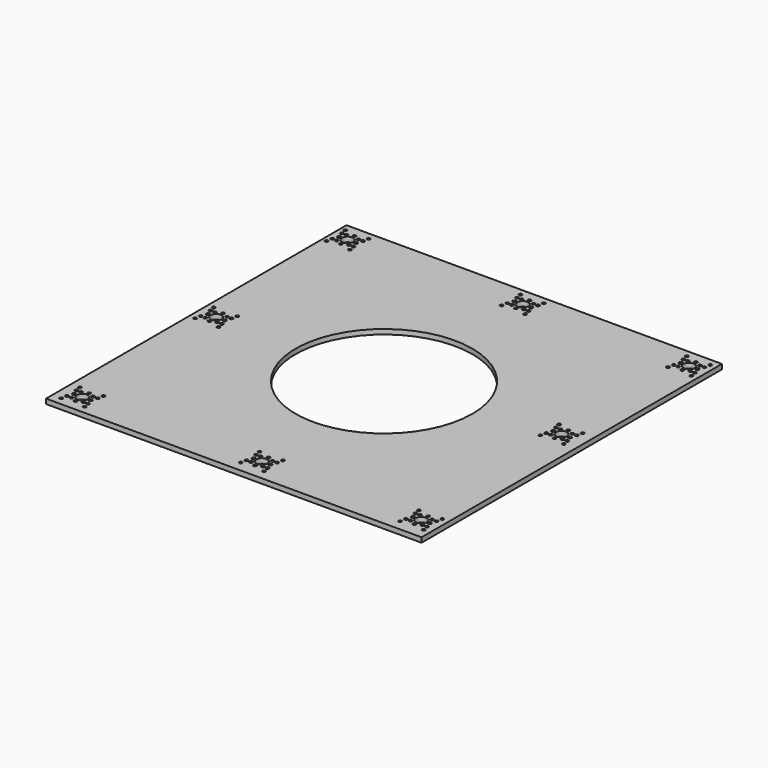
from build123d import *

# Parameters (mm, degrees)
F0_W     = 431.8
F0_H     = 431.8
F0_R     = 1.778
F0_R_2   = 2.032
F0_R_3   = 6.3627
F0_R_4   = 101.6
F1_DEPTH = 5.588


with BuildPart() as f1:
    # F0 (on Top) → F1 (new body)
    with BuildSketch(Plane.XY):
        Rectangle(F0_W, F0_H)
        with Locations((-205.769208, -206.807749)):
            Circle(F0_R, mode=Mode.SUBTRACT)
        with Locations((-192.298823, -203.116365)):
            Circle(F0_R, mode=Mode.SUBTRACT)
        with Locations((-204.434026, -200.252162)):
            Circle(F0_R, mode=Mode.SUBTRACT)
        with Locations((-199.213621, -200.252162)):
            Circle(F0_R, mode=Mode.SUBTRACT)
        with Locations((-201.823823, -193.337365)):
            Circle(F0_R_2, mode=Mode.SUBTRACT)
        with Locations((-192.298823, -193.337365)):
            Circle(F0_R_3, mode=Mode.SUBTRACT)
        with Locations((-178.828439, -206.807749)):
            Circle(F0_R, mode=Mode.SUBTRACT)
        with Locations((-185.384026, -200.252162)):
            Circle(F0_R, mode=Mode.SUBTRACT)
        with Locations((-180.163621, -200.252162)):
            Circle(F0_R, mode=Mode.SUBTRACT)
        with Locations((-182.773823, -193.337365)):
            Circle(F0_R_2, mode=Mode.SUBTRACT)
        with Locations((-204.434026, -186.422568)):
            Circle(F0_R, mode=Mode.SUBTRACT)
        with Locations((-205.769208, -179.866981)):
            Circle(F0_R, mode=Mode.SUBTRACT)
        with Locations((-199.213621, -186.422568)):
            Circle(F0_R, mode=Mode.SUBTRACT)
        with Locations((-192.298823, -183.558365)):
            Circle(F0_R, mode=Mode.SUBTRACT)
        with Locations((-185.384026, -186.422568)):
            Circle(F0_R, mode=Mode.SUBTRACT)
        with Locations((-180.163621, -186.422568)):
            Circle(F0_R, mode=Mode.SUBTRACT)
        with Locations((-178.828439, -179.866981)):
            Circle(F0_R, mode=Mode.SUBTRACT)
        with Locations((-1.6902, -203.857513)):
            Circle(F0_R, mode=Mode.SUBTRACT)
        with Locations((-0.355018, -197.301926)):
            Circle(F0_R, mode=Mode.SUBTRACT)
        with Locations((-0.355018, -183.472332)):
            Circle(F0_R, mode=Mode.SUBTRACT)
        with Locations((-1.6902, -176.916745)):
            Circle(F0_R, mode=Mode.SUBTRACT)
        with Locations((-208.910998, -10.461002)):
            Circle(F0_R, mode=Mode.SUBTRACT)
        with Locations((-207.575817, -3.905415)):
            Circle(F0_R, mode=Mode.SUBTRACT)
        with Locations((-195.440614, -6.769618)):
            Circle(F0_R, mode=Mode.SUBTRACT)
        with Locations((-202.355411, -3.905415)):
            Circle(F0_R, mode=Mode.SUBTRACT)
        with Locations((-181.97023, -10.461002)):
            Circle(F0_R, mode=Mode.SUBTRACT)
        with Locations((-188.525817, -3.905415)):
            Circle(F0_R, mode=Mode.SUBTRACT)
        with Locations((-183.305411, -3.905415)):
            Circle(F0_R, mode=Mode.SUBTRACT)
        with Locations((25.250569, -203.857513)):
            Circle(F0_R, mode=Mode.SUBTRACT)
        with Locations((4.865387, -197.301926)):
            Circle(F0_R, mode=Mode.SUBTRACT)
        with Locations((11.780184, -200.166129)):
            Circle(F0_R, mode=Mode.SUBTRACT)
        with Locations((2.255184, -190.387129)):
            Circle(F0_R_2, mode=Mode.SUBTRACT)
        with Locations((11.780184, -190.387129)):
            Circle(F0_R_3, mode=Mode.SUBTRACT)
        with Locations((18.694982, -197.301926)):
            Circle(F0_R, mode=Mode.SUBTRACT)
        with Locations((23.915387, -197.301926)):
            Circle(F0_R, mode=Mode.SUBTRACT)
        with Locations((21.305184, -190.387129)):
            Circle(F0_R_2, mode=Mode.SUBTRACT)
        with Locations((4.865387, -183.472332)):
            Circle(F0_R, mode=Mode.SUBTRACT)
        with Locations((11.780184, -180.608129)):
            Circle(F0_R, mode=Mode.SUBTRACT)
        with Locations((18.694982, -183.472332)):
            Circle(F0_R, mode=Mode.SUBTRACT)
        with Locations((23.915387, -183.472332)):
            Circle(F0_R, mode=Mode.SUBTRACT)
        with Locations((25.250569, -176.916745)):
            Circle(F0_R, mode=Mode.SUBTRACT)
        with Locations((181.334589, -203.451574)):
            Circle(F0_R, mode=Mode.SUBTRACT)
        with Locations((182.66977, -196.895987)):
            Circle(F0_R, mode=Mode.SUBTRACT)
        with Locations((187.890175, -196.895987)):
            Circle(F0_R, mode=Mode.SUBTRACT)
        with Locations((185.279973, -189.981189)):
            Circle(F0_R_2, mode=Mode.SUBTRACT)
        with Locations((208.275357, -203.451574)):
            Circle(F0_R, mode=Mode.SUBTRACT)
        with Locations((194.804973, -199.760189)):
            Circle(F0_R, mode=Mode.SUBTRACT)
        with Locations((201.71977, -196.895987)):
            Circle(F0_R, mode=Mode.SUBTRACT)
        with Locations((194.804973, -189.981189)):
            Circle(F0_R_3, mode=Mode.SUBTRACT)
        with Locations((206.940175, -196.895987)):
            Circle(F0_R, mode=Mode.SUBTRACT)
        with Locations((204.329973, -189.981189)):
            Circle(F0_R_2, mode=Mode.SUBTRACT)
        with Locations((182.66977, -183.066392)):
            Circle(F0_R, mode=Mode.SUBTRACT)
        with Locations((187.890175, -183.066392)):
            Circle(F0_R, mode=Mode.SUBTRACT)
        with Locations((181.334589, -176.510805)):
            Circle(F0_R, mode=Mode.SUBTRACT)
        with Locations((201.71977, -183.066392)):
            Circle(F0_R, mode=Mode.SUBTRACT)
        with Locations((194.804973, -180.202189)):
            Circle(F0_R, mode=Mode.SUBTRACT)
        with Locations((206.940175, -183.066392)):
            Circle(F0_R, mode=Mode.SUBTRACT)
        with Locations((208.275357, -176.510805)):
            Circle(F0_R, mode=Mode.SUBTRACT)
        with Locations((-204.965614, 3.009382)):
            Circle(F0_R_2, mode=Mode.SUBTRACT)
        with Locations((-207.575817, 9.92418)):
            Circle(F0_R, mode=Mode.SUBTRACT)
        with Locations((-195.440614, 3.009382)):
            Circle(F0_R_3, mode=Mode.SUBTRACT)
        with Locations((-202.355411, 9.92418)):
            Circle(F0_R, mode=Mode.SUBTRACT)
        with Locations((-195.440614, 12.788382)):
            Circle(F0_R, mode=Mode.SUBTRACT)
        with Locations((-208.910998, 16.479767)):
            Circle(F0_R, mode=Mode.SUBTRACT)
        with Locations((-185.915614, 3.009382)):
            Circle(F0_R_2, mode=Mode.SUBTRACT)
        with Locations((-188.525817, 9.92418)):
            Circle(F0_R, mode=Mode.SUBTRACT)
        with Locations((-183.305411, 9.92418)):
            Circle(F0_R, mode=Mode.SUBTRACT)
        with Locations((-181.97023, 16.479767)):
            Circle(F0_R, mode=Mode.SUBTRACT)
        with Locations((-210.641413, 180.718801)):
            Circle(F0_R, mode=Mode.SUBTRACT)
        with Locations((-209.306231, 187.274388)):
            Circle(F0_R, mode=Mode.SUBTRACT)
        with Locations((-204.085826, 187.274388)):
            Circle(F0_R, mode=Mode.SUBTRACT)
        with Locations((-197.171028, 184.410186)):
            Circle(F0_R, mode=Mode.SUBTRACT)
        with Locations((-190.256231, 187.274388)):
            Circle(F0_R, mode=Mode.SUBTRACT)
        with Locations((-183.700644, 180.718801)):
            Circle(F0_R, mode=Mode.SUBTRACT)
        with Locations((-185.035826, 187.274388)):
            Circle(F0_R, mode=Mode.SUBTRACT)
        with Locations((-206.696028, 194.189186)):
            Circle(F0_R_2, mode=Mode.SUBTRACT)
        with Locations((-209.306231, 201.103983)):
            Circle(F0_R, mode=Mode.SUBTRACT)
        with Locations((-204.085826, 201.103983)):
            Circle(F0_R, mode=Mode.SUBTRACT)
        with Locations((-197.171028, 194.189186)):
            Circle(F0_R_3, mode=Mode.SUBTRACT)
        with Locations((-190.256231, 201.103983)):
            Circle(F0_R, mode=Mode.SUBTRACT)
        with Locations((-210.641413, 207.65957)):
            Circle(F0_R, mode=Mode.SUBTRACT)
        with Locations((-197.171028, 203.968186)):
            Circle(F0_R, mode=Mode.SUBTRACT)
        with Locations((-187.646028, 194.189186)):
            Circle(F0_R_2, mode=Mode.SUBTRACT)
        with Locations((-185.035826, 201.103983)):
            Circle(F0_R, mode=Mode.SUBTRACT)
        with Locations((-183.700644, 207.65957)):
            Circle(F0_R, mode=Mode.SUBTRACT)
        with Locations((-9.580968, 181.124745)):
            Circle(F0_R, mode=Mode.SUBTRACT)
        with Locations((-8.245787, 187.680332)):
            Circle(F0_R, mode=Mode.SUBTRACT)
        with Locations((-3.025381, 187.680332)):
            Circle(F0_R, mode=Mode.SUBTRACT)
        with Locations((-5.635584, 194.595129)):
            Circle(F0_R_2, mode=Mode.SUBTRACT)
        with Locations((-8.245787, 201.509926)):
            Circle(F0_R, mode=Mode.SUBTRACT)
        with Locations((-3.025381, 201.509926)):
            Circle(F0_R, mode=Mode.SUBTRACT)
        with Locations((-9.580968, 208.065513)):
            Circle(F0_R, mode=Mode.SUBTRACT)
        Circle(F0_R_4, mode=Mode.SUBTRACT)
        with Locations((175.380651, 5.617059)):
            Circle(F0_R, mode=Mode.SUBTRACT)
        with Locations((176.715832, 12.172646)):
            Circle(F0_R, mode=Mode.SUBTRACT)
        with Locations((181.936238, 12.172646)):
            Circle(F0_R, mode=Mode.SUBTRACT)
        with Locations((188.851035, 9.308443)):
            Circle(F0_R, mode=Mode.SUBTRACT)
        with Locations((179.326035, 19.087443)):
            Circle(F0_R_2, mode=Mode.SUBTRACT)
        with Locations((188.851035, 19.087443)):
            Circle(F0_R_3, mode=Mode.SUBTRACT)
        with Locations((176.715832, 26.002241)):
            Circle(F0_R, mode=Mode.SUBTRACT)
        with Locations((181.936238, 26.002241)):
            Circle(F0_R, mode=Mode.SUBTRACT)
        with Locations((202.321419, 5.617059)):
            Circle(F0_R, mode=Mode.SUBTRACT)
        with Locations((195.765832, 12.172646)):
            Circle(F0_R, mode=Mode.SUBTRACT)
        with Locations((200.986238, 12.172646)):
            Circle(F0_R, mode=Mode.SUBTRACT)
        with Locations((198.376035, 19.087443)):
            Circle(F0_R_2, mode=Mode.SUBTRACT)
        with Locations((195.765832, 26.002241)):
            Circle(F0_R, mode=Mode.SUBTRACT)
        with Locations((200.986238, 26.002241)):
            Circle(F0_R, mode=Mode.SUBTRACT)
        with Locations((175.380651, 32.557828)):
            Circle(F0_R, mode=Mode.SUBTRACT)
        with Locations((188.851035, 28.866443)):
            Circle(F0_R, mode=Mode.SUBTRACT)
        with Locations((202.321419, 32.557828)):
            Circle(F0_R, mode=Mode.SUBTRACT)
        with Locations((3.889416, 184.816129)):
            Circle(F0_R, mode=Mode.SUBTRACT)
        with Locations((10.804213, 187.680332)):
            Circle(F0_R, mode=Mode.SUBTRACT)
        with Locations((17.3598, 181.124745)):
            Circle(F0_R, mode=Mode.SUBTRACT)
        with Locations((16.024619, 187.680332)):
            Circle(F0_R, mode=Mode.SUBTRACT)
        with Locations((3.889416, 194.595129)):
            Circle(F0_R_3, mode=Mode.SUBTRACT)
        with Locations((13.414416, 194.595129)):
            Circle(F0_R_2, mode=Mode.SUBTRACT)
        with Locations((10.804213, 201.509926)):
            Circle(F0_R, mode=Mode.SUBTRACT)
        with Locations((16.024619, 201.509926)):
            Circle(F0_R, mode=Mode.SUBTRACT)
        with Locations((3.889416, 204.374129)):
            Circle(F0_R, mode=Mode.SUBTRACT)
        with Locations((17.3598, 208.065513)):
            Circle(F0_R, mode=Mode.SUBTRACT)
        with Locations((182.030771, 180.718801)):
            Circle(F0_R, mode=Mode.SUBTRACT)
        with Locations((183.365952, 187.274388)):
            Circle(F0_R, mode=Mode.SUBTRACT)
        with Locations((188.586358, 187.274388)):
            Circle(F0_R, mode=Mode.SUBTRACT)
        with Locations((195.501155, 184.410186)):
            Circle(F0_R, mode=Mode.SUBTRACT)
        with Locations((208.971539, 180.718801)):
            Circle(F0_R, mode=Mode.SUBTRACT)
        with Locations((202.415952, 187.274388)):
            Circle(F0_R, mode=Mode.SUBTRACT)
        with Locations((207.636358, 187.274388)):
            Circle(F0_R, mode=Mode.SUBTRACT)
        with Locations((185.976155, 194.189186)):
            Circle(F0_R_2, mode=Mode.SUBTRACT)
        with Locations((183.365952, 201.103983)):
            Circle(F0_R, mode=Mode.SUBTRACT)
        with Locations((188.586358, 201.103983)):
            Circle(F0_R, mode=Mode.SUBTRACT)
        with Locations((182.030771, 207.65957)):
            Circle(F0_R, mode=Mode.SUBTRACT)
        with Locations((195.501155, 194.189186)):
            Circle(F0_R_3, mode=Mode.SUBTRACT)
        with Locations((205.026155, 194.189186)):
            Circle(F0_R_2, mode=Mode.SUBTRACT)
        with Locations((202.415952, 201.103983)):
            Circle(F0_R, mode=Mode.SUBTRACT)
        with Locations((207.636358, 201.103983)):
            Circle(F0_R, mode=Mode.SUBTRACT)
        with Locations((195.501155, 203.968186)):
            Circle(F0_R, mode=Mode.SUBTRACT)
        with Locations((208.971539, 207.65957)):
            Circle(F0_R, mode=Mode.SUBTRACT)
    extrude(amount=F1_DEPTH)


solid = f1.part
